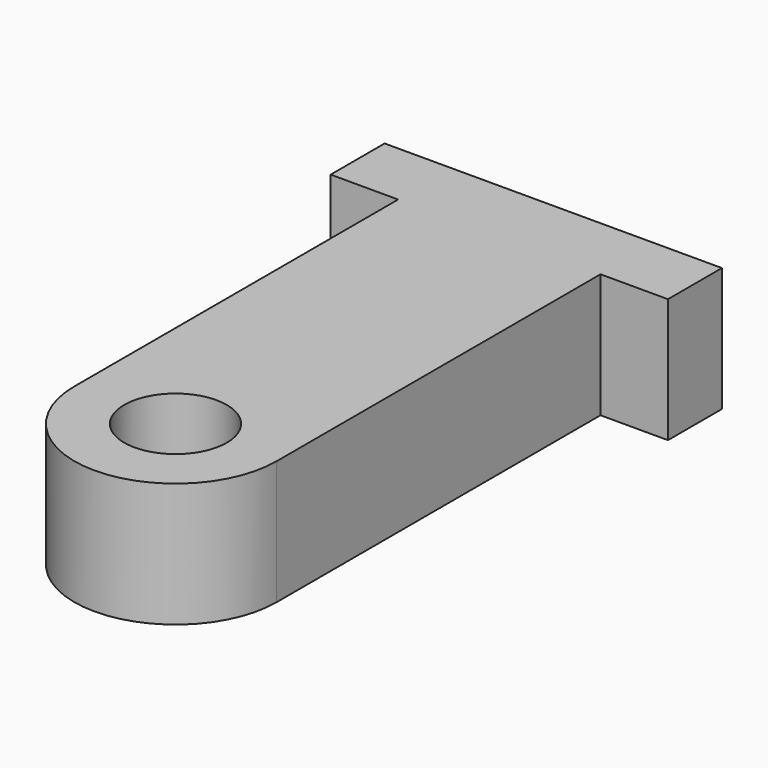
from build123d import *

# Parameters (mm, degrees)
F0_R     = 2.413
F1_DEPTH = 5.842


with BuildPart() as f1:
    # F0 (on Top) → F1 (new body)
    with BuildSketch(Plane.XY):
        with BuildLine():
            Line((-4.7625, 19.05), (-4.7625, 0))
            ThreePointArc((-4.7625, 0), (0, -4.7625), (4.7625, 0))
            Line((4.7625, 0), (4.7625, 19.05))
            Line((4.7625, 19.05), (7.9375, 19.05))
            Line((7.9375, 19.05), (7.9375, 22.225))
            Line((7.9375, 22.225), (-7.9375, 22.225))
            Line((-7.9375, 22.225), (-7.9375, 19.05))
            Line((-7.9375, 19.05), (-4.7625, 19.05))
        make_face()
        Circle(F0_R, mode=Mode.SUBTRACT)
    extrude(amount=-F1_DEPTH)


solid = f1.part
